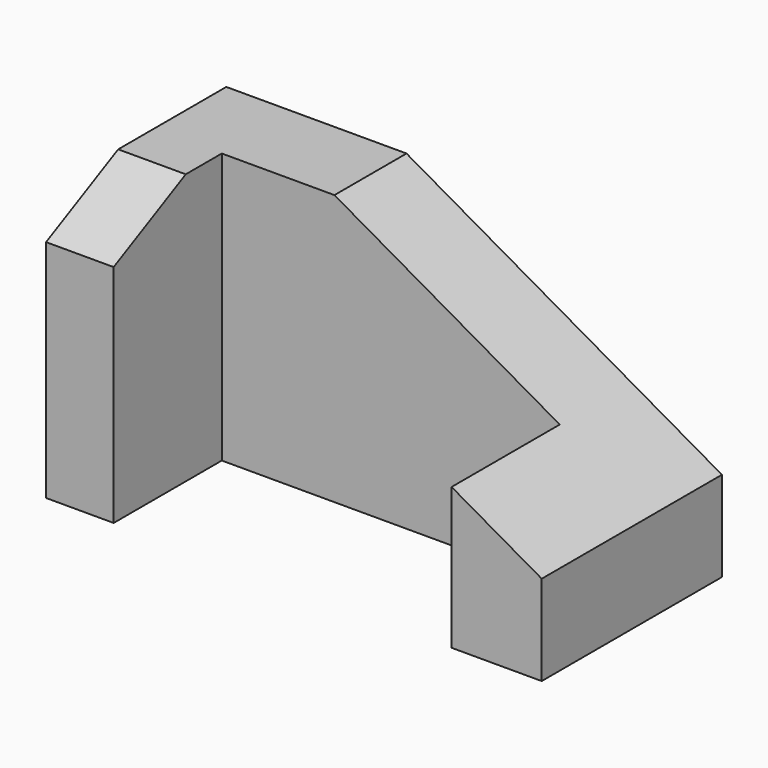
from build123d import *

# Parameters (mm, degrees)
F1_DEPTH = 60
F2_SIZE2 = 10
F2_SIZE  = 20
F3_SIZE2 = 70
F3_SIZE  = 40


with BuildPart() as f1:
    # F0 (on Top) → F1 (new body)
    with BuildSketch(Plane.XY):
        Polygon((55, 25), (-55, 25), (-55, -25), (-40, -25), (-40, 5), (35, 5), (35, -25), (55, -25), align=None)
    extrude(amount=F1_DEPTH)

    # F2
    f2_edges = [f1.edges().sort_by_distance(p)[0] for p in [
        (-47.5, -25, 60),
    ]]
    f2_side = f1.faces().sort_by_distance((1.730769, 6.923077, 60))[0]
    chamfer(f2_edges, length=F2_SIZE, length2=F2_SIZE2, reference=f2_side)

    # F3
    f3_edges = [f1.edges().sort_by_distance(p)[0] for p in [
        (55, 0, 60),
    ]]
    f3_side = f1.faces().sort_by_distance((55, 0, 30))[0]
    chamfer(f3_edges, length=F3_SIZE, length2=F3_SIZE2, reference=f3_side)


solid = f1.part
